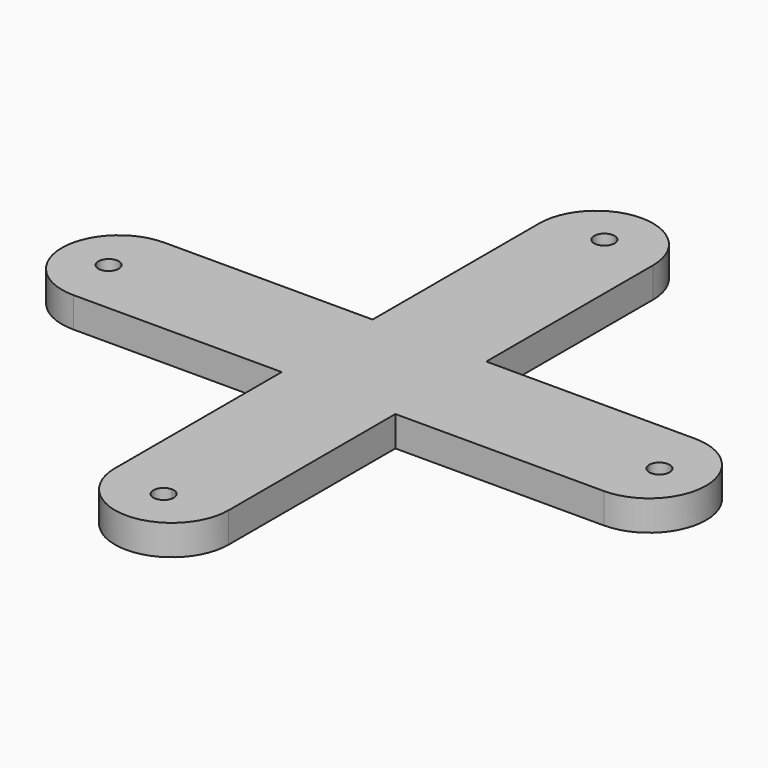
from build123d import *

# Parameters (mm, degrees)
F0_W     = 38.1
F0_H     = 38.1
F0_R     = 6.8476644278
F1_DEPTH = 20.32


with BuildPart() as f1:
    # F0 (on Top) → F1 (new body)
    with BuildSketch(Plane.XY):
        with BuildLine():
            ThreePointArc((76.2, 177.8), (38.1, 215.9), (0, 177.8))
            Line((0, 177.8), (38.1, 177.8))
            Line((38.1, 177.8), (76.2, 177.8))
        make_face()
        with BuildLine():
            ThreePointArc((44.9476644278, 184.6476644278), (42.9420299522, 179.8056344756), (38.1, 177.8))
            ThreePointArc((38.1, 177.8), (33.2579700478, 189.4896943799), (44.9476644278, 184.6476644278))
        make_face(mode=Mode.SUBTRACT)
        with BuildLine():
            Line((38.1, -177.8), (0, -177.8))
            ThreePointArc((0, -177.8), (38.1, -215.9), (76.2, -177.8))
            Line((76.2, -177.8), (38.1, -177.8))
        make_face()
        with BuildLine():
            ThreePointArc((44.9476644278, -184.6476644278), (33.2579700478, -189.4896943799), (38.1, -177.8))
            ThreePointArc((38.1, -177.8), (42.9420299522, -179.8056344756), (44.9476644278, -184.6476644278))
        make_face(mode=Mode.SUBTRACT)
        with BuildLine():
            ThreePointArc((215.9, -38.1), (254, 0), (215.9, 38.1))
            Line((215.9, 38.1), (215.9, -3e-10))
            Line((215.9, -3e-10), (215.9, -38.1))
        make_face()
        with BuildLine():
            ThreePointArc((229.5953288555, 0), (222.7476644279, -6.8476644278), (215.9, -3e-10))
            ThreePointArc((215.9, -3e-10), (222.7476644276, 6.8476644278), (229.5953288555, 0))
        make_face(mode=Mode.SUBTRACT)
        Polygon((0, 177.8), (0, 38.1), (38.1, 38.1), (76.2, 38.1), (76.2, 177.8), (38.1, 177.8), align=None)
        Polygon((76.2, 38.1), (76.2, 0), (76.2, -38.1), (215.9, -38.1), (215.9, -3e-10), (215.9, 38.1), align=None)
        Polygon((38.1, -38.1), (0, -38.1), (0, -177.8), (38.1, -177.8), (76.2, -177.8), (76.2, -38.1), align=None)
        with Locations((19.05, 19.05)):
            Rectangle(F0_W, F0_H)
        with Locations((57.15, 19.05)):
            Rectangle(F0_W, F0_H)
        with Locations((19.05, -19.05)):
            Rectangle(F0_W, F0_H)
        with Locations((57.15, -19.05)):
            Rectangle(F0_W, F0_H)
        with BuildLine():
            Line((-139.7, 0), (-139.7, 38.1))
            ThreePointArc((-139.7, 38.1), (-177.8, 0), (-139.7, -38.1))
            Line((-139.7, -38.1), (-139.7, 0))
        make_face()
        with Locations((-146.5476644278, 0)):
            Circle(F0_R, mode=Mode.SUBTRACT)
        Polygon((0, -38.1), (0, 0), (0, 38.1), (-139.7, 38.1), (-139.7, 0), (-139.7, -38.1), align=None)
    extrude(amount=F1_DEPTH)


solid = f1.part
